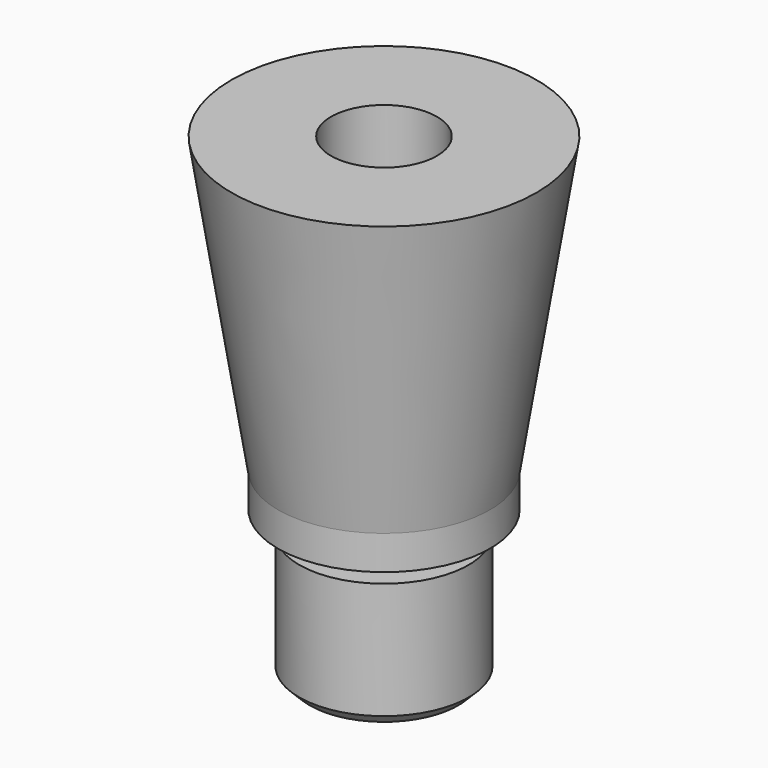
from build123d import *

# Parameters (mm, degrees)
F2_R     = 0.5
F3_DEPTH = 25
F4_R     = 2.5
F4_R_2   = 0.5
F5_DEPTH = 8
F6_SIZE  = 0.5


with BuildPart() as f1:
    # F0 (on Front) → F1 (revolve)
    with BuildSketch(Plane.XZ):
        Polygon((0, 0), (0, 22.5), (-7.2, 22.5), (-5, 8.609747), (-5, 7), (-3, 7), (-3, 6), (-4, 6), (-4, 0), align=None)
    revolve(axis=Axis((0, 0, 11.25), (0, 0, 1)))

    # F2 (on Top) → F3 (cut)
    with BuildSketch(Plane.XY):
        Circle(F2_R)
    extrude(amount=F3_DEPTH, mode=Mode.SUBTRACT)

    # F4 (on face) → F5 (cut)
    with BuildSketch(Plane.XY.offset(22.5)):
        Circle(F4_R)
        Circle(F4_R_2, mode=Mode.SUBTRACT)
    extrude(amount=-F5_DEPTH, mode=Mode.SUBTRACT)

    # F6
    f6_edges = [f1.edges().sort_by_distance(p)[0] for p in [
        (4, 0, 0),
    ]]
    chamfer(f6_edges, length=F6_SIZE)


solid = f1.part
